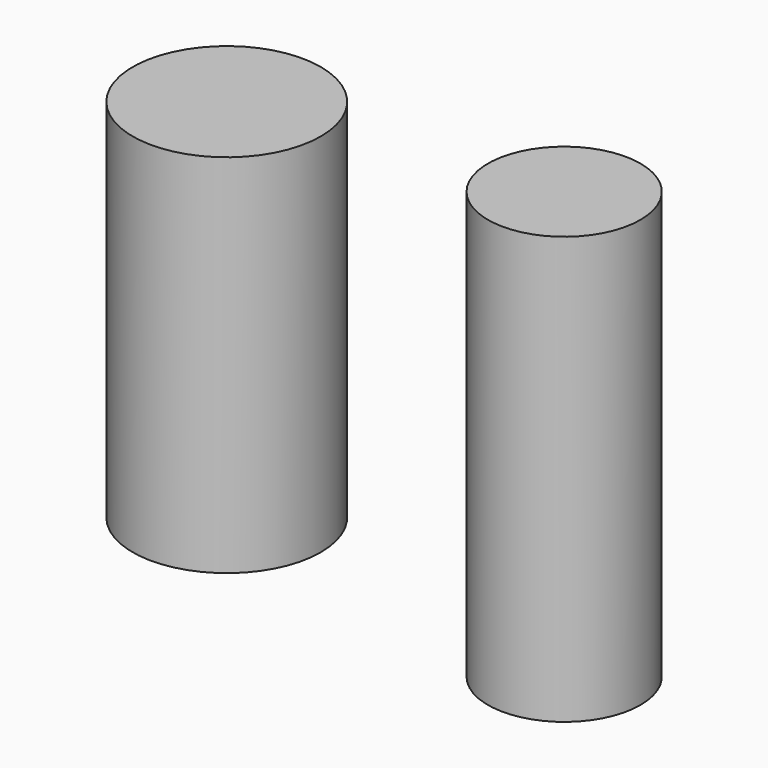
from build123d import *

# Parameters (mm, degrees)
F0_R     = 19.05
F1_DEPTH = 53.34
F2_R     = 23.495
F3_DEPTH = 45.72


with BuildPart() as f1:
    # F0 (on Top) → F1 (new body, symmetric)
    with BuildSketch(Plane.XY):
        Circle(F0_R)
    extrude(amount=F1_DEPTH, both=True)


with BuildPart() as f3:
    # F2 (on Top) → F3 (new body, symmetric)
    with BuildSketch(Plane.XY):
        with Locations((-84.286225, 0)):
            Circle(F2_R)
    extrude(amount=F3_DEPTH, both=True)


solid = Compound([f1.part, f3.part])
